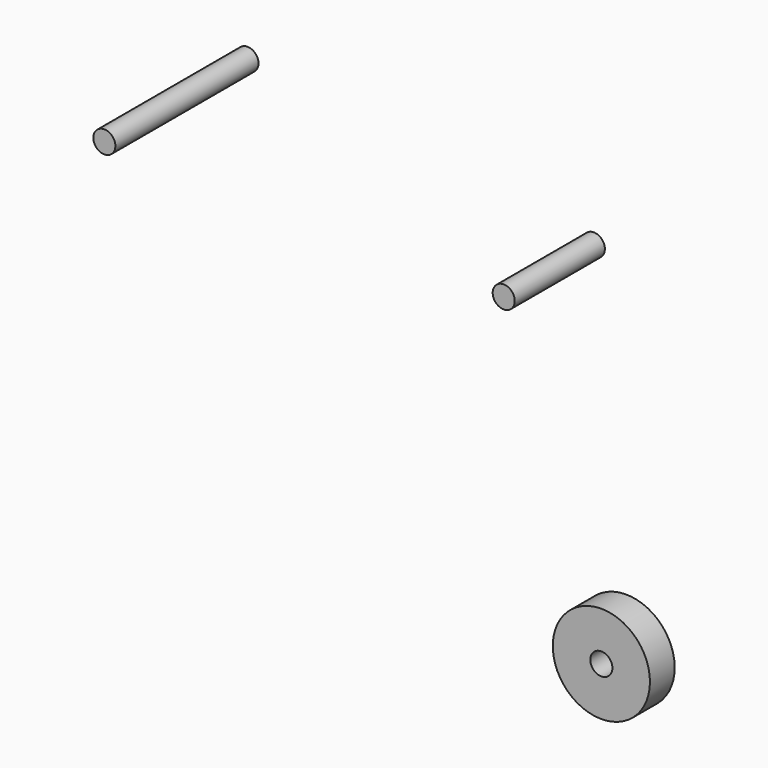
from build123d import *

# Parameters (mm, degrees)
F0_R          = 11
F0_R_2        = 2.5
F1_DEPTH      = 6
F1_DEPTH_BACK = 1
F2_R          = 2.5
F3_DEPTH      = 25.5
F4_R          = 2.5
F5_DEPTH      = 40.5


with BuildPart() as f1:
    # F0 (on Front) → F1 (new body, two sides)
    with BuildSketch(Plane.XZ) as f1_sk:
        with Locations((48.809282, -46.794683)):
            Circle(F0_R)
        with Locations((48.809282, -46.794683)):
            Circle(F0_R_2, mode=Mode.SUBTRACT)
    extrude(amount=F1_DEPTH)
    extrude(f1_sk.sketch, amount=-F1_DEPTH_BACK)


with BuildPart() as f3:
    # F2 (on Front) → F3 (new body)
    with BuildSketch(Plane.XZ):
        with Locations((42.304903, 32.157443)):
            Circle(F2_R)
    extrude(amount=F3_DEPTH)


with BuildPart() as f5:
    # F4 (on Front) → F5 (new body)
    with BuildSketch(Plane.XZ):
        with Locations((-36.104668, 43.649253)):
            Circle(F4_R)
    extrude(amount=F5_DEPTH)


solid = Compound([f1.part, f3.part, f5.part])
